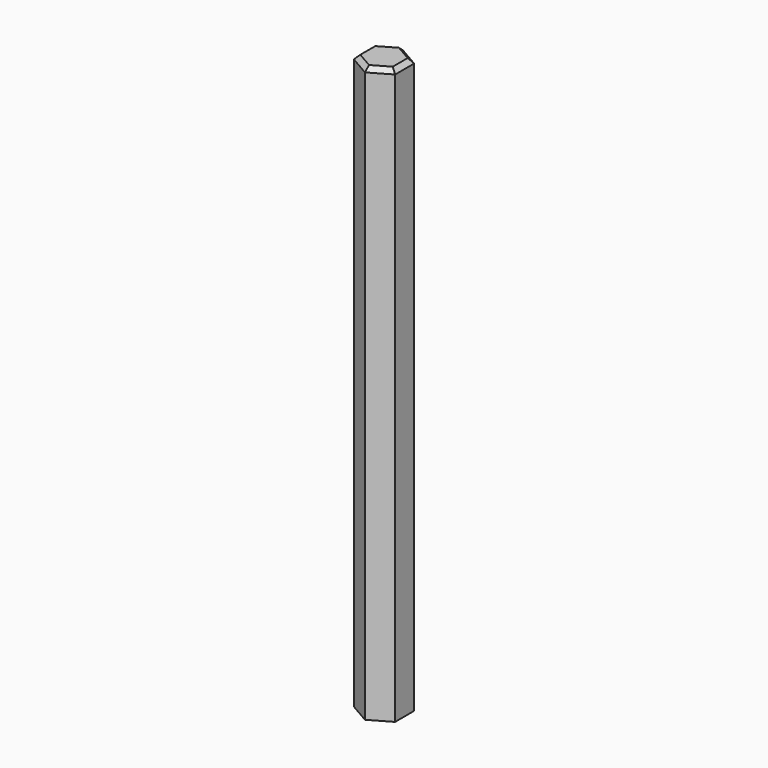
from build123d import *

# Parameters (mm, degrees)
F1_DEPTH = 195
F2_SIZE  = 1.5


with BuildPart() as f1:
    # F0 (on Top) → F1 (new body)
    with BuildSketch(Plane.XY):
        Polygon((7, -4.041452), (7, 4.041452), (0, 8.082904), (-7, 4.041452), (-7, -4.041452), (0, -8.082904), align=None)
    extrude(amount=F1_DEPTH)

    # F2
    f2_edges = [f1.edges().sort_by_distance(p)[0] for p in [
        (-3.5, -6.062178, 195),
        (3.5, -6.062178, 195),
        (7, 0, 195),
        (3.5, 6.062178, 195),
        (-3.5, 6.062178, 195),
        (-7, 0, 195),
    ]]
    chamfer(f2_edges, length=F2_SIZE)


solid = f1.part
